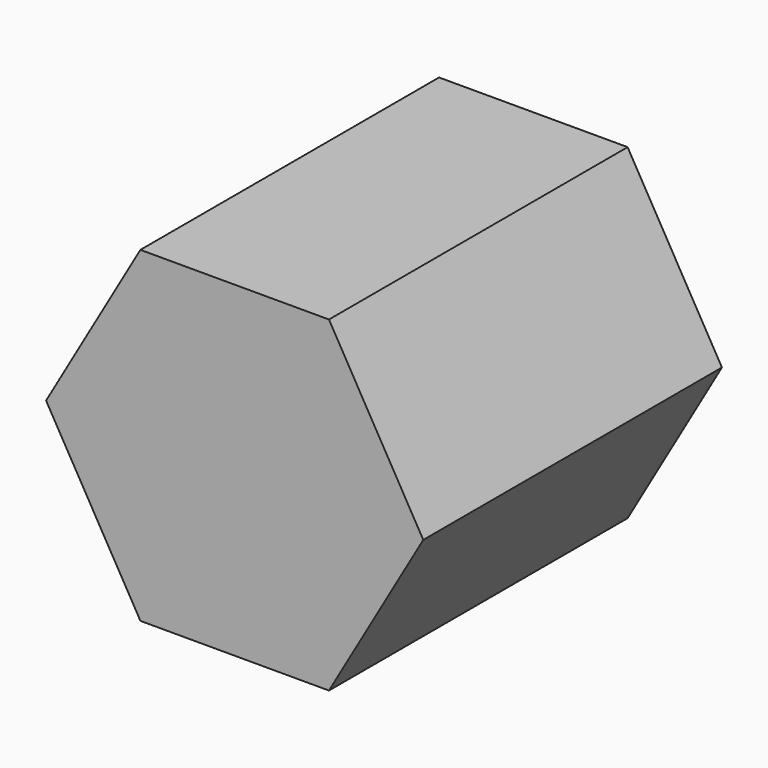
from build123d import *

# Parameters (mm, degrees)
F1_DEPTH = 8
F2_DEPTH = 7


with BuildPart() as f1:
    # F0 (on Front) → F1 (new body)
    with BuildSketch(Plane.XZ):
        Polygon((2.020726, 3.5), (-2.020726, 3.5), (-4.041452, 0), (-2.020726, -3.5), (2.020726, -3.5), (4.041452, 0), align=None)
        with BuildLine():
            ThreePointArc((-1.666583, -2.25), (-1.259676, 2.500643), (2.8, 0))
            ThreePointArc((2.8, 0), (2.500643, -1.259676), (1.666583, -2.25))
            ThreePointArc((1.666583, -2.25), (0, -2.8), (-1.666583, -2.25))
        make_face(mode=Mode.SUBTRACT)
        with BuildLine():
            ThreePointArc((1.666583, -2.25), (2.500643, -1.259676), (2.8, 0))
            ThreePointArc((2.8, 0), (-1.259676, 2.500643), (-1.666583, -2.25))
            Line((-1.666583, -2.25), (1.666583, -2.25))
        make_face()
        with BuildLine():
            Line((1.666583, -2.25), (-1.666583, -2.25))
            ThreePointArc((-1.666583, -2.25), (0, -2.8), (1.666583, -2.25))
        make_face()
    extrude(amount=F1_DEPTH)

    # F0 (on Front) → F2 (cut)
    with BuildSketch(Plane.XZ):
        with BuildLine():
            ThreePointArc((1.666583, -2.25), (2.500643, -1.259676), (2.8, 0))
            ThreePointArc((2.8, 0), (-1.259676, 2.500643), (-1.666583, -2.25))
            Line((-1.666583, -2.25), (1.666583, -2.25))
        make_face()
    extrude(amount=F2_DEPTH, mode=Mode.SUBTRACT)


solid = f1.part
